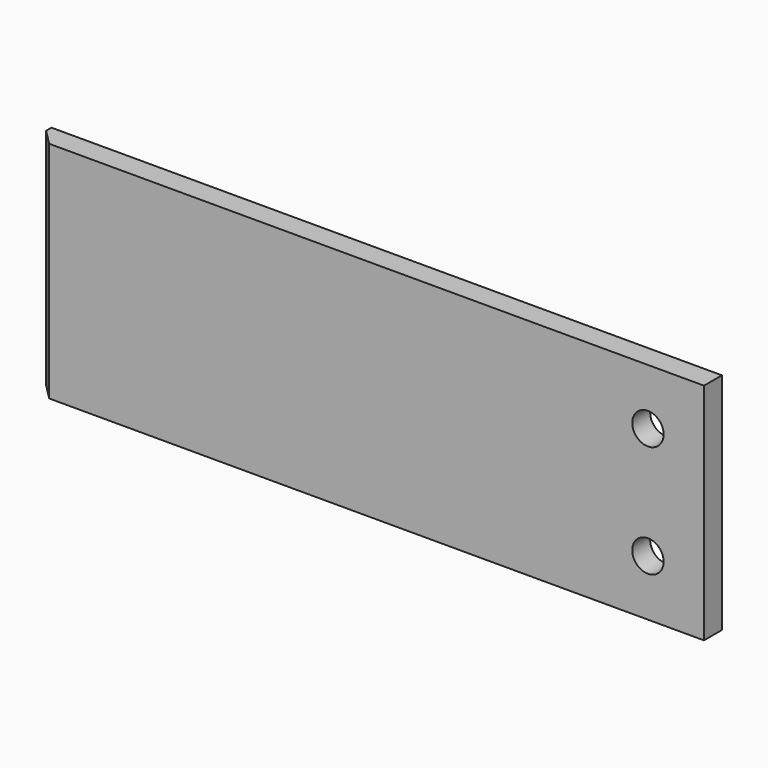
from build123d import *

# Parameters (mm, degrees)
F0_W     = 299
F0_H     = 100
F0_R     = 7
F1_DEPTH = 10
F2_SIZE  = 7


with BuildPart() as f1:
    # F0 (on Front) → F1 (new body)
    with BuildSketch(Plane.XZ):
        Rectangle(F0_W, F0_H)
        with Locations((124.5, -25)):
            Circle(F0_R, mode=Mode.SUBTRACT)
        with Locations((124.5, 25)):
            Circle(F0_R, mode=Mode.SUBTRACT)
    extrude(amount=F1_DEPTH)

    # F2
    f2_edges = [f1.edges().sort_by_distance(p)[0] for p in [
        (-149.5, -10, 0),
    ]]
    chamfer(f2_edges, length=F2_SIZE)


solid = f1.part
